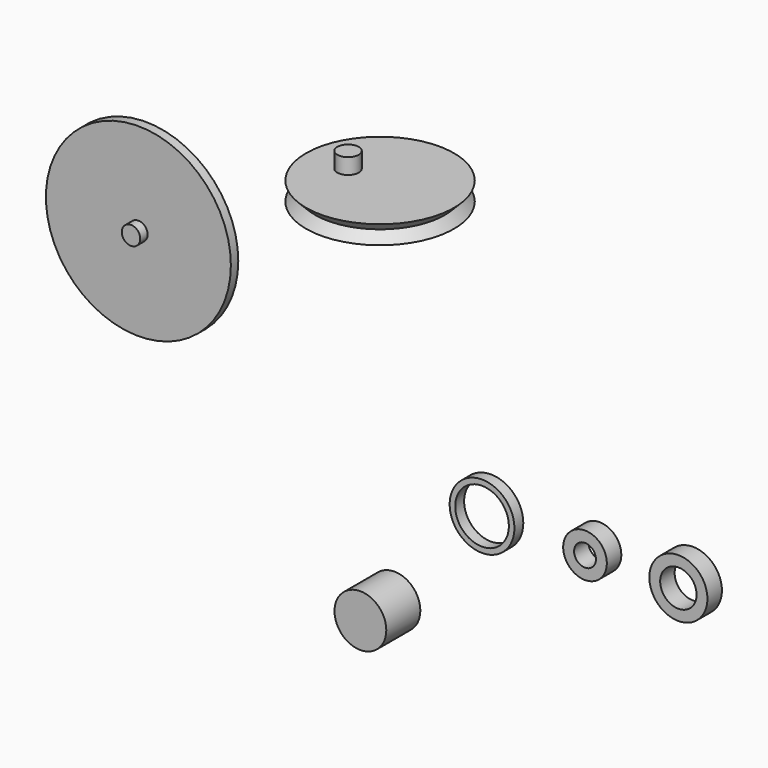
from build123d import *

# Parameters (mm, degrees)
F0_R      = 3.556
F1_DEPTH  = 5.842
F2_R      = 4.445
F3_DEPTH  = 1.524
F4_R      = 3.683
F5_DEPTH  = 25.4
F6_R      = 12.7
F6_R_2    = 0.889
F6_R_3    = 1.27
F7_DEPTH  = 1.27
F8_DEPTH  = 1.27
F9_DEPTH  = 2.54
F11_R     = 1.4732
F12_DEPTH = 2.159
F2_R_2    = 2.9972
F2_R_3    = 1.4986
F2_R_4    = 3.9878
F2_R_5    = 2.5019
F13_DEPTH = 2.4892
F14_R     = 1.4732
F15_DEPTH = 3.81


with BuildPart() as f1:
    # F0 (on Front) → F1 (new body)
    with BuildSketch(Plane.XZ):
        Circle(F0_R)
    extrude(amount=F1_DEPTH)


with BuildPart() as f3:
    # F2 (on Front) → F3 (new body)
    with BuildSketch(Plane.XZ):
        with Locations((13.251319, 15.17326)):
            Circle(F2_R)
    extrude(amount=F3_DEPTH)

    # F4 (on face) → F5 (cut)
    with BuildSketch(Plane.XZ.offset(1.524)):
        with Locations((13.251319, 15.17326)):
            Circle(F4_R)
    extrude(amount=-F5_DEPTH, mode=Mode.SUBTRACT)


with BuildPart() as f7:
    # F6 (on Front) → F7 (new body)
    with BuildSketch(Plane.XZ):
        with Locations((-34.14271, 34.125097)):
            Circle(F6_R)
        with Locations((-38.524355, 34.004767)):
            Circle(F6_R_2, mode=Mode.SUBTRACT)
        with Locations((-34.14271, 34.125097)):
            Circle(F6_R_3, mode=Mode.SUBTRACT)
        with Locations((-38.524355, 34.004767)):
            Circle(F6_R_2)
        with Locations((-34.14271, 34.125097)):
            Circle(F6_R_3)
    extrude(amount=F7_DEPTH)

    # F6 (on Front) → F8 (join)
    with BuildSketch(Plane.XZ):
        with Locations((-38.524355, 34.004767)):
            Circle(F6_R_2)
    extrude(amount=-F8_DEPTH)

    # F6 (on Front) → F9 (join)
    with BuildSketch(Plane.XZ):
        with Locations((-34.14271, 34.125097)):
            Circle(F6_R_3)
    extrude(amount=F9_DEPTH)


with BuildPart() as f10:
    # F6 (on Front) → F10 (revolve)
    with BuildSketch(Plane.XZ):
        Polygon((-1.974862, 50.189517), (-12.134862, 50.189517), (-10.888062, 48.919517), (-12.134862, 47.649517), (-1.974862, 47.649517), align=None)
        Polygon((-1.974862, 50.189517), (-12.134862, 50.189517), (-10.888062, 48.919517), (-12.134862, 47.649517), (-1.974862, 47.649517), align=None)
    revolve(axis=Axis((-1.974862, 0, 48.919517), (0, 0, -1)))

    # F11 (on face) → F12 (join)
    with BuildSketch(Plane.XY.offset(50.189517)):
        with Locations((-6.369062, 0)):
            Circle(F11_R)
    extrude(amount=F12_DEPTH)

    # F14 (on face) → F15 (join)
    with BuildSketch(Plane(origin=(0, 0, 47.649517), x_dir=(1, 0, 0), z_dir=(0, 0, -1))):
        with Locations((-1.974862, 0)):
            Circle(F14_R)
    extrude(amount=F15_DEPTH)


with BuildPart() as f13:
    # F2 (on Front) → F13 (new body)
    with BuildSketch(Plane.XZ):
        with Locations((28.161833, 15.697576)):
            Circle(F2_R_2)
        with Locations((28.161833, 15.697576)):
            Circle(F2_R_3, mode=Mode.SUBTRACT)
        with Locations((40.982924, 15.901085)):
            Circle(F2_R_4)
        with Locations((40.982924, 15.901085)):
            Circle(F2_R_5, mode=Mode.SUBTRACT)
    extrude(amount=F13_DEPTH)


solid = Compound([f1.part, f3.part, f7.part, f10.part, f13.part])
